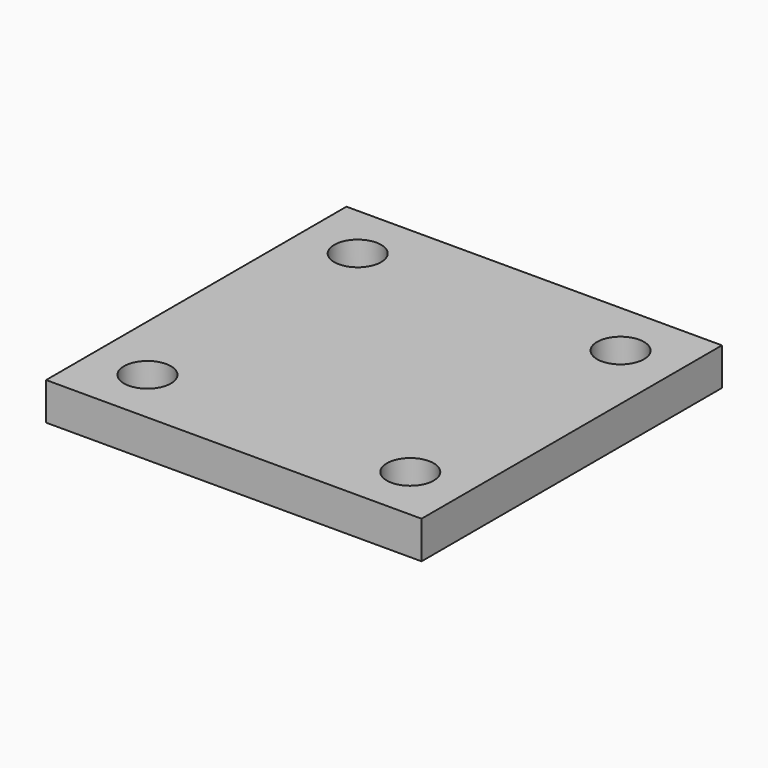
from build123d import *

# Parameters (mm, degrees)
F0_W     = 20
F0_H     = 20
F1_DEPTH = 2
F3_D     = 2.5


with BuildPart() as f1:
    # F0 (on Top) → F1 (new body)
    with BuildSketch(Plane.XY):
        Rectangle(F0_W, F0_H)
    extrude(amount=-F1_DEPTH)

    # F3 (through all)
    with Locations(Plane.XY):
        with Locations((-7, 7), (7, 7), (-7, -7), (7, -7)):
            Hole(F3_D / 2)


solid = f1.part
